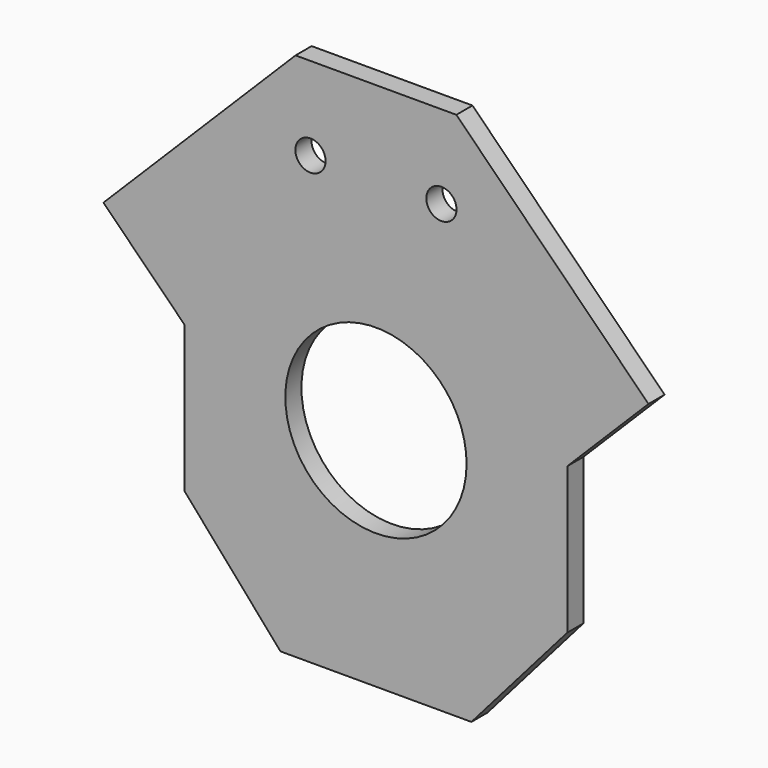
from build123d import *

# Parameters (mm, degrees)
F0_R     = 15
F1_DEPTH = 20


with BuildPart() as f1:
    # F0 (on Front) → F1 (new body)
    with BuildSketch(Plane.XZ):
        with BuildLine():
            ThreePointArc((-63.63961, -1.137085), (0, 25.223305), (63.63961, -1.137085))
            Line((63.63961, -1.137085), (190.872949, 126.096255))
            Line((190.872949, 126.096255), (79.857185, 237.112019))
            Line((79.857185, 237.112019), (0, 237.112019))
            Line((0, 237.112019), (-79.857185, 237.112019))
            Line((-79.857185, 237.112019), (-190.87295, 126.096255))
            Line((-190.87295, 126.096255), (-63.63961, -1.137085))
        make_face()
        with Locations((-65, 154.372583)):
            Circle(F0_R, mode=Mode.SUBTRACT)
        with Locations((65, 154.372583)):
            Circle(F0_R, mode=Mode.SUBTRACT)
        with BuildLine():
            Line((190.872949, 126.096255), (63.63961, -1.137085))
            ThreePointArc((63.63961, -1.137085), (83.149158, -30.335186), (90, -64.776695))
            ThreePointArc((90, -64.776695), (-34.441509, -147.925853), (-63.63961, -1.137085))
            Line((-63.63961, -1.137085), (-190.87295, 126.096255))
            Line((-190.87295, 126.096255), (-270.612759, 46.356446))
            Line((-270.612759, 46.356446), (-190, -34.256313))
            Line((-190, -34.256313), (-190, -179.776695))
            Line((-190, -179.776695), (-94.798649, -288.776695))
            Line((-94.798649, -288.776695), (0, -288.776695))
            Line((0, -288.776695), (94.798648, -288.776695))
            Line((94.798648, -288.776695), (190, -179.776695))
            Line((190, -179.776695), (190, -34.256313))
            Line((190, -34.256313), (270.612758, 46.356446))
            Line((270.612758, 46.356446), (190.872949, 126.096255))
        make_face()
    extrude(amount=F1_DEPTH)


solid = f1.part
